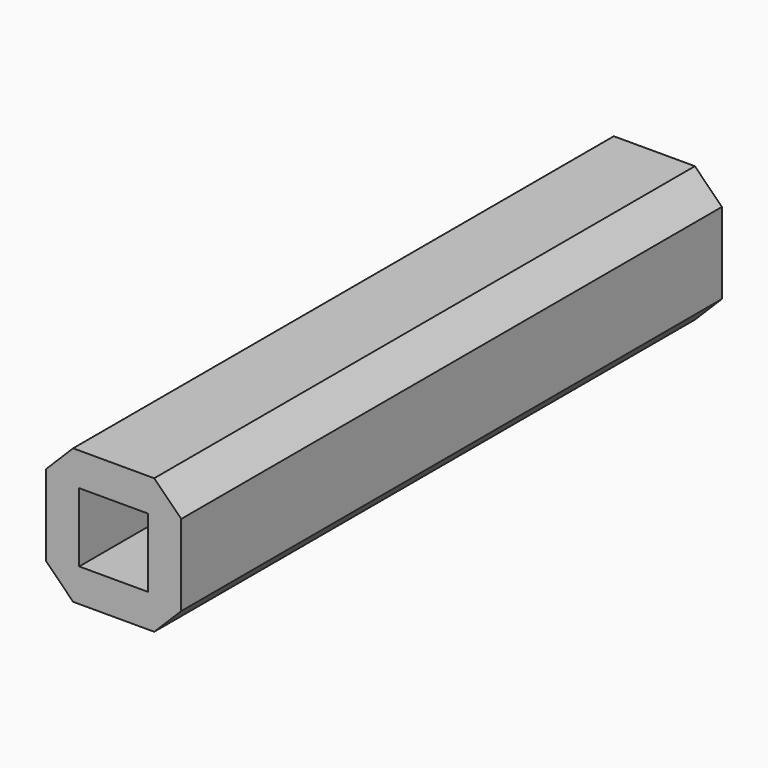
from build123d import *

# Parameters (mm, degrees)
F0_W     = 6.35
F0_H     = 6.35
F0_W_2   = 3.2385
F0_H_2   = 3.2385
F1_DEPTH = 31.75
F2_SIZE  = 1.27


with BuildPart() as f1:
    # F0 (on Front) → F1 (new body)
    with BuildSketch(Plane.XZ):
        Rectangle(F0_W, F0_H)
        Rectangle(F0_W_2, F0_H_2, mode=Mode.SUBTRACT)
    extrude(amount=F1_DEPTH)

    # F2
    f2_edges = [f1.edges().sort_by_distance(p)[0] for p in [
        (3.175, -15.875, 3.175),
        (3.175, -15.875, -3.175),
        (-3.175, -15.875, -3.175),
        (-3.175, -15.875, 3.175),
    ]]
    chamfer(f2_edges, length=F2_SIZE)


solid = f1.part
